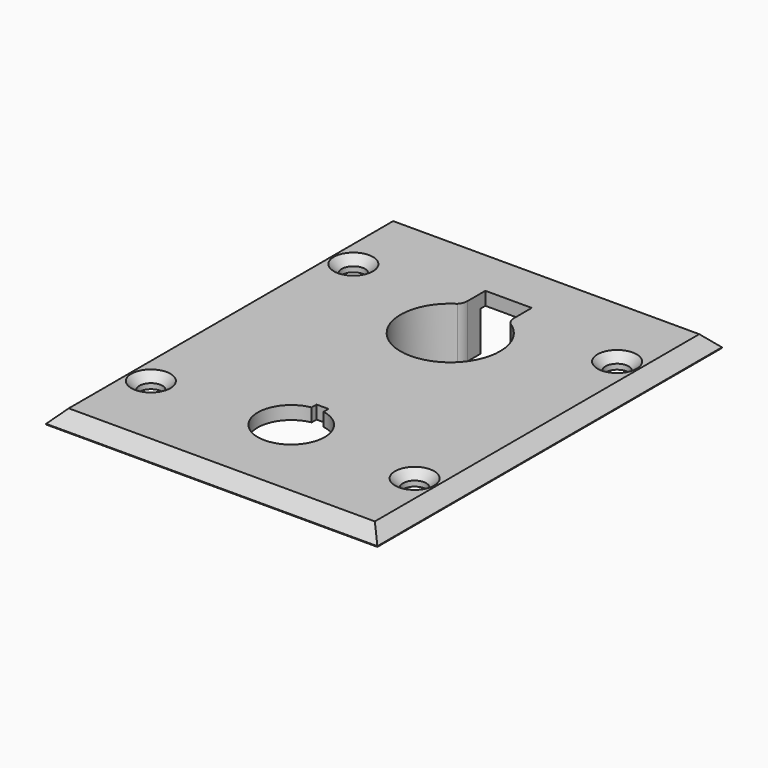
from build123d import *

# Parameters (mm, degrees)
SKETCH_W        = 50
SKETCH_H        = 65
PAD_DEPTH       = 2
SKETCH003_R     = 1
PAD001_DEPTH    = 6
POCKET001_DEPTH = 8.001
SKETCH001_R     = 1.75
POCKET_DEPTH    = 2
CHAMFER_SIZE    = 1.2
CHAMFER001_SIZE = 1.9


with BuildPart() as part:
    # Sketch → Pad (new body)
    with BuildSketch(Plane.XY):
        Rectangle(SKETCH_W, SKETCH_H)
    extrude(amount=PAD_DEPTH)

    # Sketch003 (on DatumPlane) → Pad001 (join)
    with BuildSketch(Plane.XY):
        with BuildLine():
            Line((-10.1, 3.4), (-10.1, 21.6))
            ThreePointArc((-9.1, 22.6), (-9.807107, 22.307107), (-10.1, 21.6))
            Line((-9.1, 22.6), (9.1, 22.6))
            ThreePointArc((10.1, 21.6), (9.807107, 22.307107), (9.1, 22.6))
            Line((10.1, 21.6), (10.1, 3.4))
            ThreePointArc((9.1, 2.4), (9.807107, 2.692893), (10.1, 3.4))
            Line((-9.1, 2.4), (9.1, 2.4))
            ThreePointArc((-10.1, 3.4), (-9.807107, 2.692893), (-9.1, 2.4))
        make_face()
        with Locations((-7.25, 5.25)):
            Circle(SKETCH003_R, mode=Mode.SUBTRACT)
        with Locations((7.25, 5.25)):
            Circle(SKETCH003_R, mode=Mode.SUBTRACT)
        with Locations((7.25, 19.75)):
            Circle(SKETCH003_R, mode=Mode.SUBTRACT)
        with Locations((-7.25, 19.75)):
            Circle(SKETCH003_R, mode=Mode.SUBTRACT)
    extrude(amount=-PAD001_DEPTH)

    # Sketch002 (on DatumPlane) → Pocket001 (cut, through all)
    with BuildSketch(Plane.XY.offset(2)):
        with BuildLine():
            ThreePointArc((-4, 18.844289), (0, 5), (4, 18.844289))
            ThreePointArc((3.5, 20.13325), (3.635081, 19.444191), (4, 18.844289))
            Line((3.5, 23.5), (3.5, 20.13325))
            Line((-3.5, 23.5), (3.5, 23.5))
            Line((-3.5, 23.5), (-3.5, 20.13325))
            ThreePointArc((-4, 18.844289), (-3.635081, 19.444191), (-3.5, 20.13325))
        make_face()
        with BuildLine():
            ThreePointArc((-0.9, -12.530845), (0, -22.55), (0.9, -12.530845))
            Line((0.9, -11.6), (0.9, -12.530845))
            Line((-0.9, -11.6), (0.9, -11.6))
            Line((-0.9, -11.6), (-0.9, -12.530845))
        make_face()
    extrude(amount=-POCKET001_DEPTH, mode=Mode.SUBTRACT)

    # Sketch001 (on DatumPlane) → Pocket (cut)
    with BuildSketch(Plane.XY.offset(2)):
        with Locations((-19.9, 19.1)):
            Circle(SKETCH001_R)
        with Locations((19.9, 19.1)):
            Circle(SKETCH001_R)
        with Locations((19.9, -19.1)):
            Circle(SKETCH001_R)
        with Locations((-19.9, -19.1)):
            Circle(SKETCH001_R)
    extrude(amount=-POCKET_DEPTH, mode=Mode.SUBTRACT)

    # Chamfer
    chamfer_edges = [part.edges().sort_by_distance(p)[0] for p in [
        (-21.65, 19.1, 2),
        (18.15, 19.1, 2),
        (18.15, -19.1, 2),
        (-21.65, -19.1, 2),
    ]]
    chamfer(chamfer_edges, length=CHAMFER_SIZE)

    # Chamfer001
    chamfer001_edges = [part.edges().sort_by_distance(p)[0] for p in [
        (-25, 0, 2),
        (0, 32.5, 2),
        (25, 0, 2),
        (0, -32.5, 2),
    ]]
    chamfer(chamfer001_edges, length=CHAMFER001_SIZE)


solid = part.part
